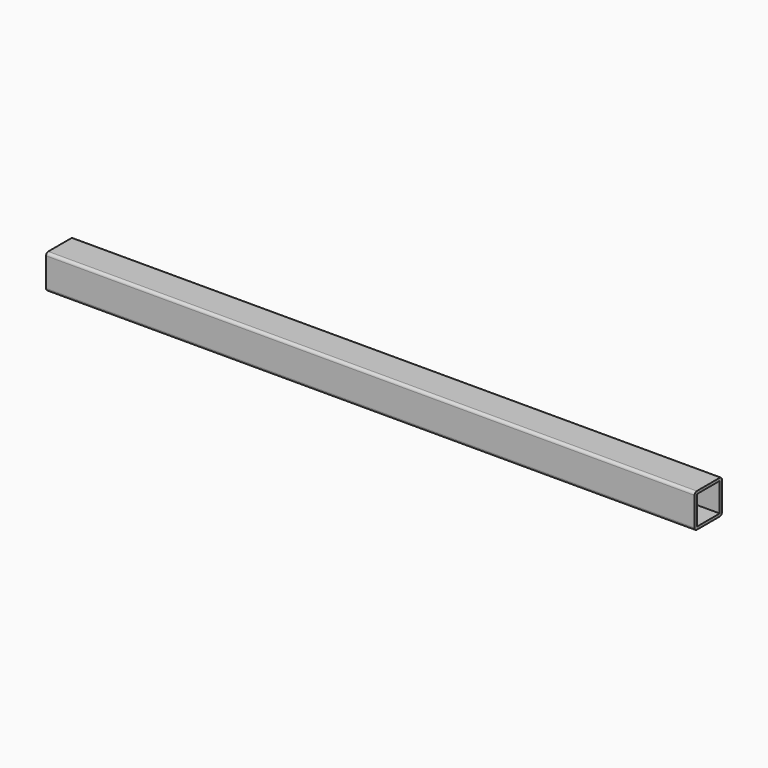
from build123d import *

# Parameters (mm, degrees)
F0_W     = 42
F0_H     = 42
F1_DEPTH = 475


with BuildPart() as f1:
    # F0 (on Right) → F1 (new body, symmetric)
    with BuildSketch(Plane.YZ):
        with BuildLine():
            Line((21, 25), (-21, 25))
            ThreePointArc((-21, 25), (-23.828427, 23.828427), (-25, 21))
            Line((-25, 21), (-25, -21))
            ThreePointArc((-25, -21), (-23.828427, -23.828427), (-21, -25))
            Line((-21, -25), (21, -25))
            ThreePointArc((21, -25), (23.828427, -23.828427), (25, -21))
            Line((25, -21), (25, 21))
            ThreePointArc((25, 21), (23.828427, 23.828427), (21, 25))
        make_face()
        Rectangle(F0_W, F0_H, mode=Mode.SUBTRACT)
    extrude(amount=F1_DEPTH, both=True)


solid = f1.part
